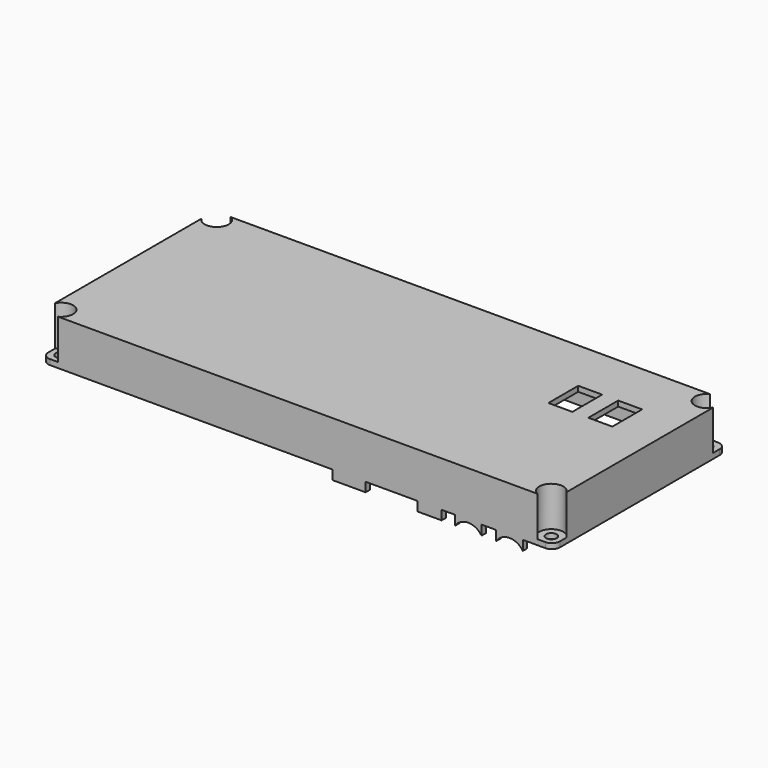
from build123d import *

# Parameters (mm, degrees)
BOX034_W          = 9
BOX034_H          = 2
BOX034_DEPTH      = 10
CYLINDER027_R     = 6
CYLINDER027_DEPTH = 10
BOX035_W          = 10
BOX035_H          = 2
BOX035_DEPTH      = 10
CYLINDER028_R     = 6
CYLINDER028_DEPTH = 10
BOX036_W          = 10
BOX036_H          = 2
BOX036_DEPTH      = 10
CYLINDER029_R     = 6
CYLINDER029_DEPTH = 10
BOX037_W          = 10
BOX037_H          = 2
BOX037_DEPTH      = 10
BOX033_W          = 12.5
BOX033_H          = 2
BOX033_DEPTH      = 10
BOX032_W          = 9
BOX032_H          = 14
BOX032_DEPTH      = 10
BOX031_W          = 9
BOX031_H          = 14
BOX031_DEPTH      = 10
CYLINDER023_R     = 4.5
CYLINDER023_DEPTH = 20
CYLINDER024_R     = 4.5
CYLINDER024_DEPTH = 20
CYLINDER025_R     = 4.5
CYLINDER025_DEPTH = 20
CYLINDER026_R     = 4.5
CYLINDER026_DEPTH = 20
CYLINDER020_R     = 2
CYLINDER020_DEPTH = 20
CYLINDER021_R     = 2
CYLINDER021_DEPTH = 20
CYLINDER022_R     = 2
CYLINDER022_DEPTH = 20
CYLINDER019_R     = 2
CYLINDER019_DEPTH = 20
BOX030_W          = 176
BOX030_H          = 67
BOX030_DEPTH      = 15
BOX029_W          = 165
BOX029_H          = 74
BOX029_DEPTH      = 2
BOX028_W          = 187
BOX028_H          = 54
BOX028_DEPTH      = 2
BOX027_W          = 192
BOX027_H          = 81
BOX027_DEPTH      = 17
FILLET001_R       = 3


with BuildPart() as cube018:
    # Box034 → Box034 (new body)
    with BuildSketch(Plane(origin=(139, 0, 17.5), x_dir=(1, 0, 0), z_dir=(0, 0, 1))):
        with Locations((4.5, 1)):
            Rectangle(BOX034_W, BOX034_H)
    extrude(amount=BOX034_DEPTH)


with BuildPart() as cylinder027:
    # Cylinder027 → Cylinder027 (new body)
    with BuildSketch(Plane(origin=(158, -4, 13), x_dir=(1, 0, 0), z_dir=(0, 1, 0))):
        Circle(CYLINDER027_R)
    extrude(amount=CYLINDER027_DEPTH)


with BuildPart() as cut010:
    # Box035 → Box035 (new body)
    with BuildSketch(Plane(origin=(153, 0, 14.5), x_dir=(1, 0, 0), z_dir=(0, 0, 1))):
        with Locations((5, 1)):
            Rectangle(BOX035_W, BOX035_H)
    extrude(amount=BOX035_DEPTH)

    # Cut010: cut Cylinder027
    add(cylinder027.part, mode=Mode.SUBTRACT)


with BuildPart() as cut010_1:
    # Cut010 placement: moved
    add(cut010.part.moved(Location((0, 0, 1))))


with BuildPart() as cylinder028:
    # Cylinder028 → Cylinder028 (new body)
    with BuildSketch(Plane(origin=(158, -4, 13), x_dir=(1, 0, 0), z_dir=(0, 1, 0))):
        Circle(CYLINDER028_R)
    extrude(amount=CYLINDER028_DEPTH)


with BuildPart() as cut011:
    # Box036 → Box036 (new body)
    with BuildSketch(Plane(origin=(153, 0, 14.5), x_dir=(1, 0, 0), z_dir=(0, 0, 1))):
        with Locations((5, 1)):
            Rectangle(BOX036_W, BOX036_H)
    extrude(amount=BOX036_DEPTH)

    # Cut011: cut Cylinder028
    add(cylinder028.part, mode=Mode.SUBTRACT)


with BuildPart() as cut011_1:
    # Cut011 placement: moved
    add(cut011.part.moved(Location((12, 79, 1))))


with BuildPart() as cylinder029:
    # Cylinder029 → Cylinder029 (new body)
    with BuildSketch(Plane(origin=(158, -4, 13), x_dir=(1, 0, 0), z_dir=(0, 1, 0))):
        Circle(CYLINDER029_R)
    extrude(amount=CYLINDER029_DEPTH)


with BuildPart() as cut012:
    # Box037 → Box037 (new body)
    with BuildSketch(Plane(origin=(153, 0, 14.5), x_dir=(1, 0, 0), z_dir=(0, 0, 1))):
        with Locations((5, 1)):
            Rectangle(BOX037_W, BOX037_H)
    extrude(amount=BOX037_DEPTH)

    # Cut012: cut Cylinder029
    add(cylinder029.part, mode=Mode.SUBTRACT)


with BuildPart() as cut012_1:
    # Cut012 placement: moved
    add(cut012.part.moved(Location((15.5, 0, 1))))


with BuildPart() as coverholes:
    # Box033 → Box033 (new body)
    with BuildSketch(Plane(origin=(107, 0, 17.5), x_dir=(1, 0, 0), z_dir=(0, 0, 1))):
        with Locations((6.25, 1)):
            Rectangle(BOX033_W, BOX033_H)
    extrude(amount=BOX033_DEPTH)

    # Compound002: union Cube018, Cut010, Cut011, Cut012
    add(cube018.part)
    add(cut010_1.part)
    add(cut011_1.part)
    add(cut012_1.part)


with BuildPart() as switch_placement_hole001:
    # Box032 → Box032 (new body)
    with BuildSketch(Plane(origin=(150.5, 47, 31), x_dir=(1, 0, 0), z_dir=(0, 0, 1))):
        with Locations((4.5, 7)):
            Rectangle(BOX032_W, BOX032_H)
    extrude(amount=BOX032_DEPTH)


with BuildPart() as compound001:
    # Box031 → Box031 (new body)
    with BuildSketch(Plane(origin=(165.5, 47, 31), x_dir=(1, 0, 0), z_dir=(0, 0, 1))):
        with Locations((4.5, 7)):
            Rectangle(BOX031_W, BOX031_H)
    extrude(amount=BOX031_DEPTH)

    # Compound001: union Switch Placement Hole001
    add(switch_placement_hole001.part)


with BuildPart() as cylinder023:
    # Cylinder023 → Cylinder023 (new body)
    with BuildSketch(Plane(origin=(2, 77, 0), x_dir=(1, 0, 0), z_dir=(0, 0, 1))):
        Circle(CYLINDER023_R)
    extrude(amount=CYLINDER023_DEPTH)


with BuildPart() as cylinder024:
    # Cylinder024 → Cylinder024 (new body)
    with BuildSketch(Plane(origin=(186, 77, 0), x_dir=(1, 0, 0), z_dir=(0, 0, 1))):
        Circle(CYLINDER024_R)
    extrude(amount=CYLINDER024_DEPTH)


with BuildPart() as cylinder025:
    # Cylinder025 → Cylinder025 (new body)
    with BuildSketch(Plane(origin=(186, 4, 0), x_dir=(1, 0, 0), z_dir=(0, 0, 1))):
        Circle(CYLINDER025_R)
    extrude(amount=CYLINDER025_DEPTH)


with BuildPart() as fusion015:
    # Cylinder026 → Cylinder026 (new body)
    with BuildSketch(Plane(origin=(2, 4, 0), x_dir=(1, 0, 0), z_dir=(0, 0, 1))):
        Circle(CYLINDER026_R)
    extrude(amount=CYLINDER026_DEPTH)

    # Fusion015: union Cylinder023, Cylinder024, Cylinder025
    add(cylinder023.part)
    add(cylinder024.part)
    add(cylinder025.part)


with BuildPart() as fusion015_1:
    # Fusion015 placement: moved
    add(fusion015.part.moved(Location((0, 0, 23))))


with BuildPart() as cylinder020:
    # Cylinder020 → Cylinder020 (new body)
    with BuildSketch(Plane(origin=(2, 77, 0), x_dir=(1, 0, 0), z_dir=(0, 0, 1))):
        Circle(CYLINDER020_R)
    extrude(amount=CYLINDER020_DEPTH)


with BuildPart() as cylinder021:
    # Cylinder021 → Cylinder021 (new body)
    with BuildSketch(Plane(origin=(186, 77, 0), x_dir=(1, 0, 0), z_dir=(0, 0, 1))):
        Circle(CYLINDER021_R)
    extrude(amount=CYLINDER021_DEPTH)


with BuildPart() as cylinder022:
    # Cylinder022 → Cylinder022 (new body)
    with BuildSketch(Plane(origin=(186, 4, 0), x_dir=(1, 0, 0), z_dir=(0, 0, 1))):
        Circle(CYLINDER022_R)
    extrude(amount=CYLINDER022_DEPTH)


with BuildPart() as fusion014:
    # Cylinder019 → Cylinder019 (new body)
    with BuildSketch(Plane(origin=(2, 4, 0), x_dir=(1, 0, 0), z_dir=(0, 0, 1))):
        Circle(CYLINDER019_R)
    extrude(amount=CYLINDER019_DEPTH)

    # Fusion014: union Cylinder020, Cylinder021, Cylinder022
    add(cylinder020.part)
    add(cylinder021.part)
    add(cylinder022.part)


with BuildPart() as fusion014_1:
    # Fusion014 placement: moved
    add(fusion014.part.moved(Location((0, 0, 18))))


with BuildPart() as cube016:
    # Box030 → Box030 (new body)
    with BuildSketch(Plane(origin=(6, 7, 21), x_dir=(1, 0, 0), z_dir=(0, 0, 1))):
        with Locations((88, 33.5)):
            Rectangle(BOX030_W, BOX030_H)
    extrude(amount=BOX030_DEPTH)


with BuildPart() as cube015:
    # Box029 → Box029 (new body)
    with BuildSketch(Plane(origin=(11.5, 3.5, 21), x_dir=(1, 0, 0), z_dir=(0, 0, 1))):
        with Locations((82.5, 37)):
            Rectangle(BOX029_W, BOX029_H)
    extrude(amount=BOX029_DEPTH)


with BuildPart() as obj1:
    # Box028 → Box028 (new body)
    with BuildSketch(Plane(origin=(1.5, 13.5, 21), x_dir=(1, 0, 0), z_dir=(0, 0, 1))):
        with Locations((93.5, 27)):
            Rectangle(BOX028_W, BOX028_H)
    extrude(amount=BOX028_DEPTH)

    # Fusion013: union Cube015
    add(cube015.part)


with BuildPart() as cover:
    # Box027 → Box027 (new body)
    with BuildSketch(Plane(origin=(-2, 0, 21), x_dir=(1, 0, 0), z_dir=(0, 0, 1))):
        with Locations((96, 40.5)):
            Rectangle(BOX027_W, BOX027_H)
    extrude(amount=BOX027_DEPTH)

    # Fillet001
    fillet001_edges = [cover.edges().sort_by_distance(p)[0] for p in [
        (-2, 0, 29.5),
        (-2, 81, 29.5),
        (190, 0, 29.5),
        (190, 81, 29.5),
    ]]
    fillet(fillet001_edges, radius=FILLET001_R)

    # Cut005: cut obj1
    add(obj1.part, mode=Mode.SUBTRACT)

    # Cut006: cut Cube016
    add(cube016.part, mode=Mode.SUBTRACT)

    # Cut007: cut Fusion014
    add(fusion014_1.part, mode=Mode.SUBTRACT)

    # Cut008: cut Fusion015
    add(fusion015_1.part, mode=Mode.SUBTRACT)

    # Cut009: cut Compound001
    add(compound001.part, mode=Mode.SUBTRACT)

    # Fusion016: union CoverHoles
    add(coverholes.part)


solid = cover.part
